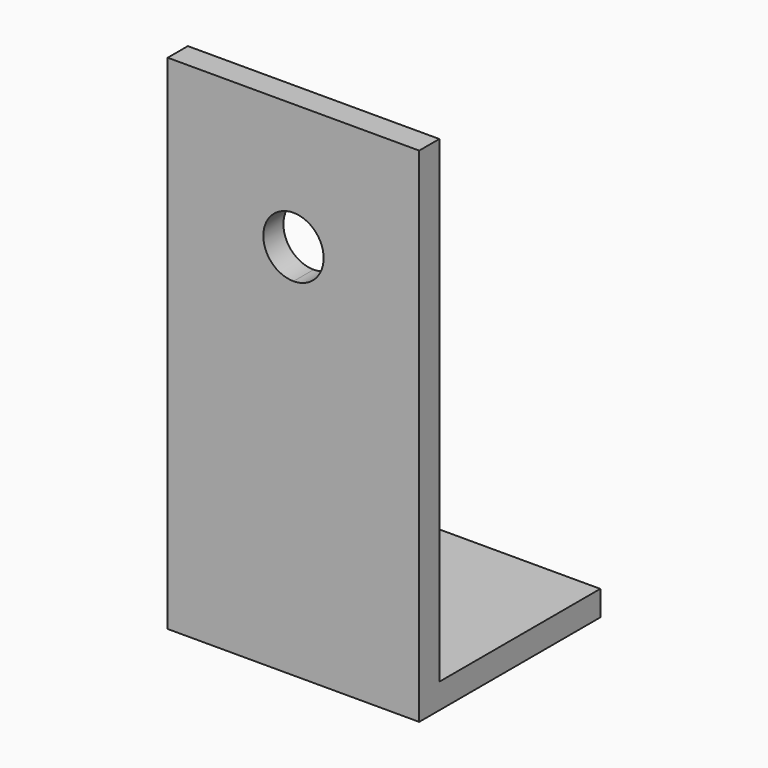
from build123d import *

# Parameters (mm, degrees)
F0_W     = 63.5
F0_H     = 127
F1_DEPTH = 6.35
F2_W     = 63.5
F2_H     = 6.35
F3_DEPTH = 50.8
F5_DEPTH = 25.4


with BuildPart() as f1:
    # F0 (on Front) → F1 (new body)
    with BuildSketch(Plane.XZ):
        with Locations((-105.7790880203, 53.5060482323)):
            Rectangle(F0_W, F0_H)
    extrude(amount=F1_DEPTH)

    # F2 (on face) → F3 (join)
    with BuildSketch(Plane(origin=(0, 0, 0), x_dir=(-1, 0, 0), z_dir=(0, 1, 0))):
        with Locations((105.7790880203, -6.8189517677)):
            Rectangle(F2_W, F2_H)
    extrude(amount=F3_DEPTH)

    # F4 (on face) → F5 (cut)
    with BuildSketch(Plane.XZ.offset(6.35)):
        with BuildLine():
            Line((-105.7790880203, 77.6360482323), (-105.7790880203, 92.8760482323))
            ThreePointArc((-105.7790880203, 92.8760482323), (-113.3990880203, 85.2560482323), (-105.7790880203, 77.6360482323))
        make_face()
        with BuildLine():
            ThreePointArc((-98.1590880203, 85.2560482323), (-100.3909343477, 90.644201905), (-105.7790880203, 92.8760482323))
            Line((-105.7790880203, 92.8760482323), (-105.7790880203, 77.6360482323))
            ThreePointArc((-105.7790880203, 77.6360482323), (-100.3909343477, 79.8678945597), (-98.1590880203, 85.2560482323))
        make_face()
    extrude(amount=-F5_DEPTH, mode=Mode.SUBTRACT)


solid = f1.part
